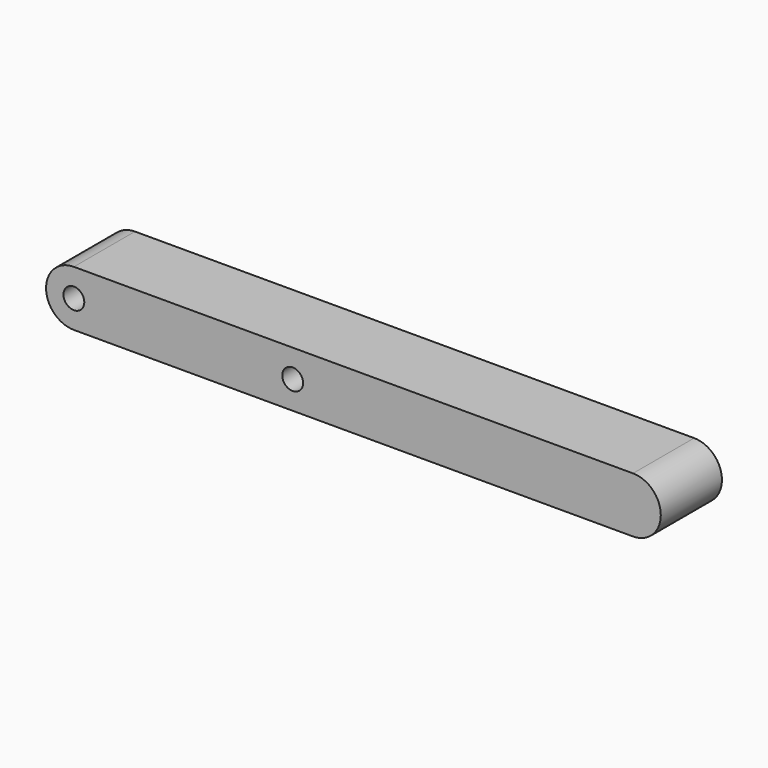
from build123d import *

# Parameters (mm, degrees)
F0_W     = 8
F0_H     = 16
F0_W_2   = 24
F0_R     = 3
F0_W_3   = 35
F1_DEPTH = 6
F2_DEPTH = 22


with BuildPart() as f1:
    # F0 (on Front) → F1 (new body)
    with BuildSketch(Plane.XZ):
        with BuildLine():
            ThreePointArc((0, -8), (5.6568542495, -5.6568542495), (8, 0))
            ThreePointArc((8, 0), (5.6568542495, 5.6568542495), (0, 8))
            Line((0, 8), (0, -8))
        make_face()
        with BuildLine():
            Line((0, -8), (0, 8))
            ThreePointArc((0, 8), (-8, 0), (0, -8))
        make_face()
        with BuildLine():
            ThreePointArc((0, -8), (-8, 0), (0, 8))
            Line((0, 8), (-72, 8))
            Line((-72, 8), (-72, -8))
            Line((-72, -8), (0, -8))
        make_face()
        with Locations((-76, 0)):
            Rectangle(F0_W, F0_H)
        with Locations((-92, 0)):
            Rectangle(F0_W_2, F0_H)
        with Locations((-98, 0)):
            Circle(F0_R, mode=Mode.SUBTRACT)
        with Locations((-108, 0)):
            Rectangle(F0_W, F0_H)
        with Locations((-129.5, 0)):
            Rectangle(F0_W_3, F0_H)
        with Locations((-151, 0)):
            Rectangle(F0_W, F0_H)
        with BuildLine():
            Line((-155, -8), (-155, 8))
            Line((-155, 8), (-161, 8))
            ThreePointArc((-161, 8), (-169, 0), (-161, -8))
            Line((-161, -8), (-155, -8))
        make_face()
        with Locations((-161, 0)):
            Circle(F0_R, mode=Mode.SUBTRACT)
    extrude(amount=F1_DEPTH)

    # F0 (on Front) → F2 (join)
    with BuildSketch(Plane.XZ):
        with BuildLine():
            ThreePointArc((0, -8), (5.6568542495, -5.6568542495), (8, 0))
            ThreePointArc((8, 0), (5.6568542495, 5.6568542495), (0, 8))
            Line((0, 8), (0, -8))
        make_face()
        with BuildLine():
            Line((0, -8), (0, 8))
            ThreePointArc((0, 8), (-8, 0), (0, -8))
        make_face()
        with BuildLine():
            ThreePointArc((0, -8), (-8, 0), (0, 8))
            Line((0, 8), (-72, 8))
            Line((-72, 8), (-72, -8))
            Line((-72, -8), (0, -8))
        make_face()
        with Locations((-76, 0)):
            Rectangle(F0_W, F0_H)
        with Locations((-92, 0)):
            Rectangle(F0_W_2, F0_H)
        with Locations((-98, 0)):
            Circle(F0_R, mode=Mode.SUBTRACT)
        with Locations((-108, 0)):
            Rectangle(F0_W, F0_H)
        with Locations((-129.5, 0)):
            Rectangle(F0_W_3, F0_H)
        with Locations((-151, 0)):
            Rectangle(F0_W, F0_H)
        with BuildLine():
            Line((-155, -8), (-155, 8))
            Line((-155, 8), (-161, 8))
            ThreePointArc((-161, 8), (-169, 0), (-161, -8))
            Line((-161, -8), (-155, -8))
        make_face()
        with Locations((-161, 0)):
            Circle(F0_R, mode=Mode.SUBTRACT)
    extrude(amount=F2_DEPTH)


solid = f1.part
